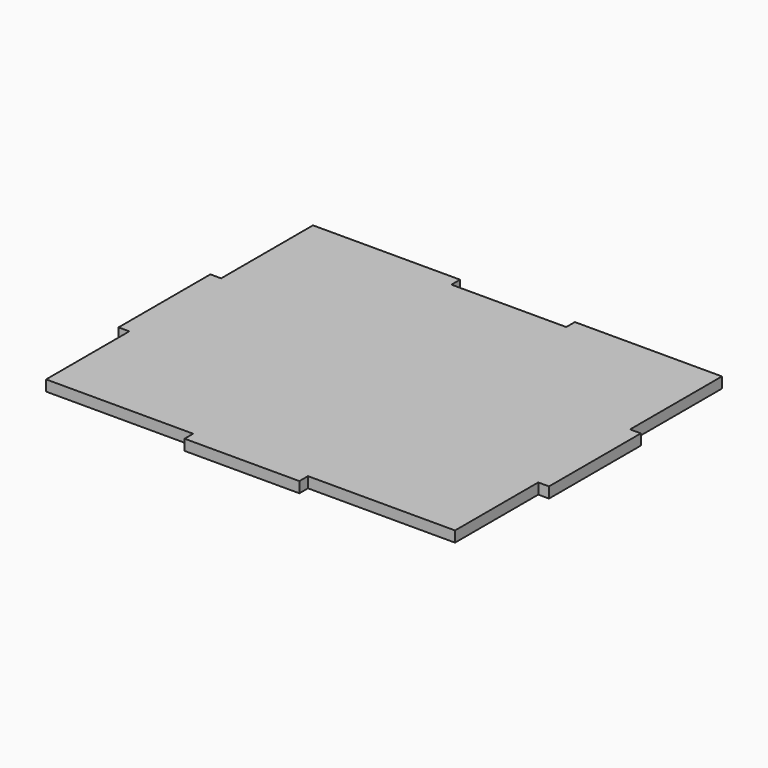
from build123d import *

# Parameters (mm, degrees)
F0_W     = 19.05
F0_H     = 203.2
F0_W_2   = 203.2
F0_H_2   = 19.05
F1_DEPTH = 19.05


with BuildPart() as f1:
    # F0 (on Top) → F1 (new body)
    with BuildSketch(Plane.XY):
        with Locations((-374.065609, 99.656673)):
            Rectangle(F0_W, F0_H)
        Polygon((-104.190609, 404.456673), (-364.540609, 404.456673), (-364.540609, 201.256673), (-364.540609, -1.943327), (-364.540609, -186.093327), (-104.190609, -186.093327), (99.009391, -186.093327), (359.359391, -186.093327), (359.359391, -1.943327), (359.359391, 201.256673), (359.359391, 404.456673), (99.009391, 404.456673), (99.009391, 385.406673), (-104.190609, 385.406673), align=None)
        with Locations((368.884391, 99.656673)):
            Rectangle(F0_W, F0_H)
        with Locations((-2.590609, -195.618327)):
            Rectangle(F0_W_2, F0_H_2)
    extrude(amount=F1_DEPTH)


solid = f1.part
